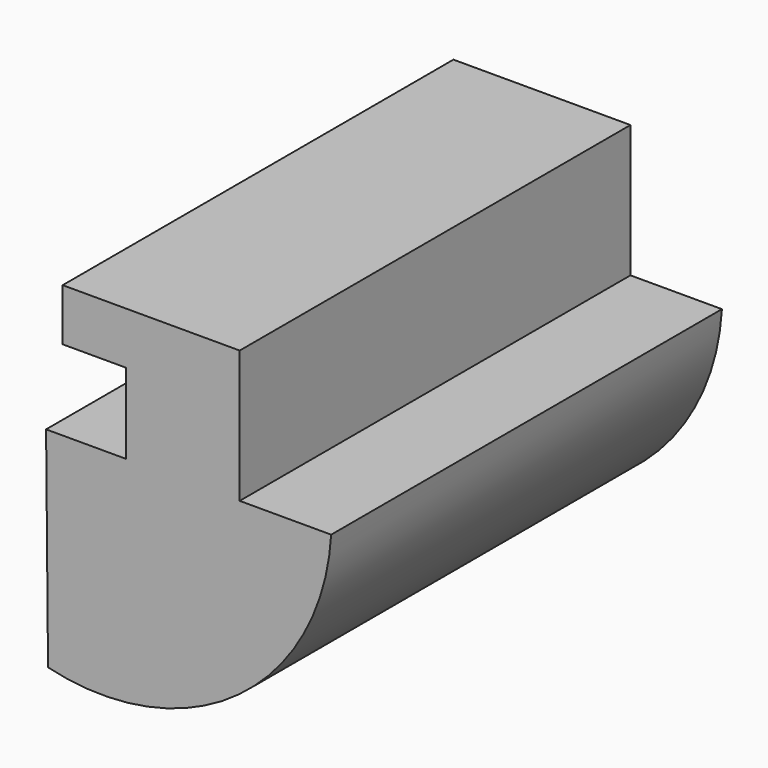
from build123d import *

# Parameters (mm, degrees)
F1_DEPTH = 76.2


with BuildPart() as f1:
    # F0 (on Front) → F1 (new body)
    with BuildSketch(Plane.XZ):
        with BuildLine():
            Line((-75.81626, -39.602265), (-75.511565, -72.197098))
            ThreePointArc((-75.511565, -72.197098), (-45.783731, -66.25503), (-31.337889, -39.602265))
            Line((-31.337889, -39.602265), (-45.608908, -39.602265))
            Line((-45.608908, -39.602265), (-63.353062, -39.602265))
            Line((-63.353062, -39.602265), (-75.81626, -39.602265))
        make_face()
        Polygon((-63.353062, -39.602265), (-45.608908, -39.602265), (-45.608908, -18.955742), (-63.353062, -18.955742), (-73.227495, -18.955742), (-73.227495, -27.083755), (-63.353062, -27.083755), align=None)
    extrude(amount=F1_DEPTH)


solid = f1.part
